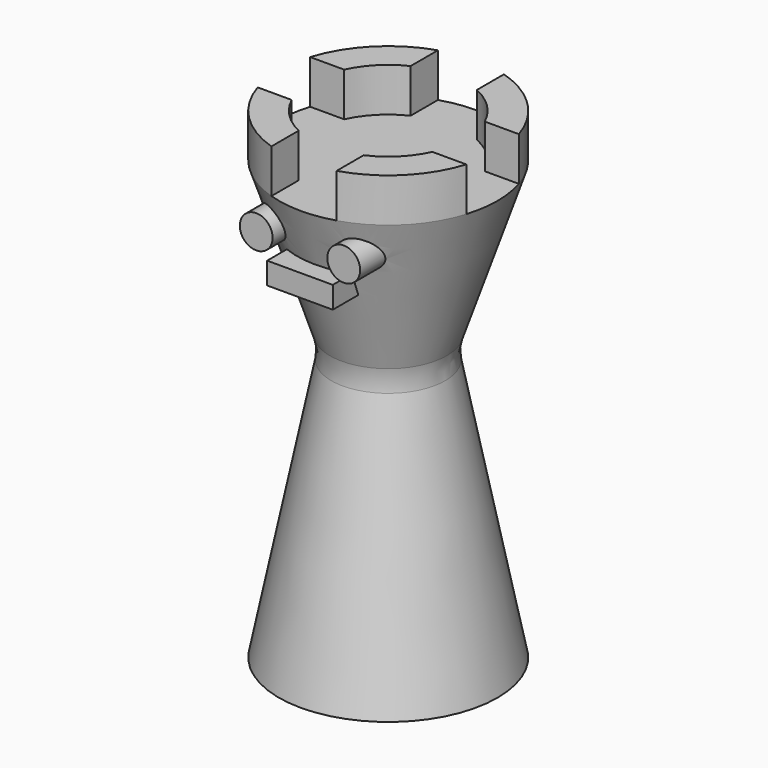
from build123d import *

# Parameters (mm, degrees)
F3_DEPTH  = 5.08
F5_W      = 7.62
F5_H      = 5.08
F6_DEPTH  = 38.101
F8_W      = 7.62
F8_H      = 5.08
F9_DEPTH  = 25.401
F10_R     = 1.905
F10_W     = 7.62
F10_H     = 2.54
F11_DEPTH = 12.7
F12_R     = 5.08


with BuildPart() as f1:
    # F0 (on Front) → F1 (revolve)
    with BuildSketch(Plane.XZ):
        Polygon((12.7, 50.8), (12.7, 0), (25.4, 0), (19.05, 31.75), (25.4, 50.8), align=None)
    revolve(axis=Axis((12.7, 0, 25.4), (0, 0, -1)))

    # F2 (on face) → F3 (join)
    with BuildSketch(Plane.XY.offset(50.8)):
        with BuildLine():
            ThreePointArc((0, 0), (3.7197438789, -8.9802561211), (12.7, -12.7))
            Line((12.7, -12.7), (12.7, -8.9802561211))
            Line((12.7, -8.9802561211), (12.6097438789, -8.9802561211))
            ThreePointArc((12.6097438789, -8.9802561211), (6.3235645942, -6.3764354058), (3.7197438789, -0.0902561211))
            Line((3.7197438789, -0.0902561211), (3.7197438789, 0.0902561211))
            ThreePointArc((3.7197438789, 0.0902561211), (6.3235645942, 6.3764354058), (12.6097438789, 8.9802561211))
            Line((12.6097438789, 8.9802561211), (12.7, 8.9802561211))
            Line((12.7, 8.9802561211), (12.7, 12.7))
            ThreePointArc((12.7, 12.7), (3.7197438789, 8.9802561211), (0, 0))
        make_face()
        with BuildLine():
            Line((12.7, -8.9802561211), (12.7, -12.7))
            ThreePointArc((12.7, -12.7), (21.6802561211, -8.9802561211), (25.4, 0))
            ThreePointArc((25.4, 0), (21.6802561211, 8.9802561211), (12.7, 12.7))
            Line((12.7, 12.7), (12.7, 8.9802561211))
            Line((12.7, 8.9802561211), (12.7902561211, 8.9802561211))
            ThreePointArc((12.7902561211, 8.9802561211), (19.0764354058, 6.3764354058), (21.6802561211, 0.0902561211))
            Line((21.6802561211, 0.0902561211), (21.6802561211, -0.0902561211))
            ThreePointArc((21.6802561211, -0.0902561211), (19.0764354058, -6.3764354058), (12.7902561211, -8.9802561211))
            Line((12.7902561211, -8.9802561211), (12.7, -8.9802561211))
        make_face()
    extrude(amount=F3_DEPTH)

    # F5 (on offset) → F6 (cut, through all)
    with BuildSketch(Plane.XZ.offset(25.4)):
        with Locations((12.6097438789, 53.34)):
            Rectangle(F5_W, F5_H)
    extrude(amount=-F6_DEPTH, mode=Mode.SUBTRACT)

    # F8 (on offset) → F9 (cut, through all)
    with BuildSketch(Plane.YZ.offset(25.4)):
        with Locations((0, 53.34)):
            Rectangle(F8_W, F8_H)
    extrude(amount=-F9_DEPTH, mode=Mode.SUBTRACT)

    # F10 (on Front) → F11 (join)
    with BuildSketch(Plane.XZ):
        with Locations((7.5297438789, 46.99)):
            Circle(F10_R)
        with Locations((17.6897438789, 46.99)):
            Circle(F10_R)
        with Locations((12.6097438789, 43.18)):
            Rectangle(F10_W, F10_H)
    extrude(amount=F11_DEPTH)

    # F12
    f12_edges = [f1.edges().sort_by_distance(p)[0] for p in [
        (6.35, 0, 31.75),
    ]]
    fillet(f12_edges, radius=F12_R)


solid = f1.part
